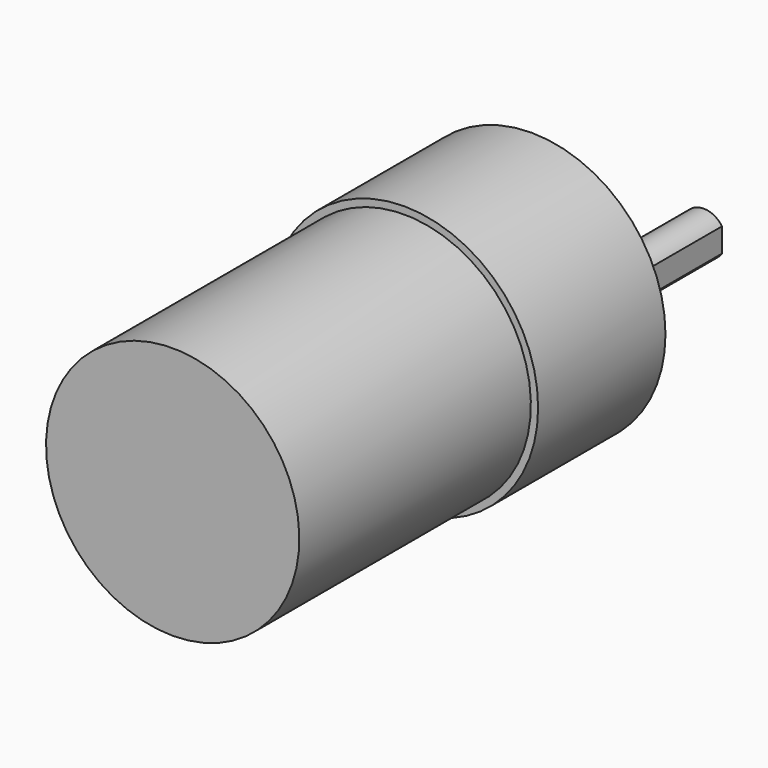
from build123d import *

# Parameters (mm, degrees)
SKETCH022_R             = 18.5
PAD015_DEPTH            = 22
SKETCH023_R             = 17.5
PAD016_DEPTH            = 40
SKETCH024_R             = 6
PAD017_DEPTH            = 6
FILLET001_R             = 1
SKETCH025_R             = 3
PAD018_DEPTH            = 15
POCKET005_DEPTH         = 12
SKETCH027_R             = 1.5
POCKET006_DEPTH         = 15
BODY002_PLACEMENT_ANGLE = 90


with BuildPart() as part:
    # Sketch022 → Pad015 (new body)
    with BuildSketch(Plane.XZ):
        with Locations((0, 18.5)):
            Circle(SKETCH022_R)
    extrude(amount=PAD015_DEPTH)

    # Sketch023 (on Face3 of Pad015) → Pad016 (join)
    with BuildSketch(Plane.XZ.offset(22)):
        with Locations((0, 18.5)):
            Circle(SKETCH023_R)
    extrude(amount=PAD016_DEPTH)

    # Sketch024 (on Face2 of Pad016) → Pad017 (join)
    with BuildSketch(Plane(origin=(0, 0, 0), x_dir=(1, 0, 0), z_dir=(0, 1, 0))):
        with Locations((0, -25.5)):
            Circle(SKETCH024_R)
    extrude(amount=PAD017_DEPTH)

    # Fillet001
    fillet001_edges = [part.edges().sort_by_distance(p)[0] for p in [
        (-6, 6, 25.5),
    ]]
    fillet(fillet001_edges, radius=FILLET001_R)

    # Sketch025 (on Face4 of Fillet001) → Pad018 (join)
    with BuildSketch(Plane(origin=(0, 6, 0), x_dir=(1, 0, 0), z_dir=(0, 1, 0))):
        with Locations((0, -25.5)):
            Circle(SKETCH025_R)
    extrude(amount=PAD018_DEPTH)

    # Sketch026 (on Face8 of Pad018) → Pocket005 (cut)
    with BuildSketch(Plane(origin=(0, 21, 0), x_dir=(1, 0, 0), z_dir=(0, 1, 0))):
        with BuildLine():
            Line((-1.658312, -28), (1.658312, -28))
            ThreePointArc((-1.658312, -28), (0, -28.5), (1.658312, -28))
        make_face()
    extrude(amount=-POCKET005_DEPTH, mode=Mode.SUBTRACT)

    # Sketch027 (on Face3 of Pocket005) → Pocket006 (cut)
    with BuildSketch(Plane(origin=(0, 0, 0), x_dir=(1, 0, 0), z_dir=(0, 1, 0))):
        with Locations((-7.75, -5.08)):
            Circle(SKETCH027_R)
        with Locations((7.75, -5.08)):
            Circle(SKETCH027_R)
        with Locations((-15.5, -18.5)):
            Circle(SKETCH027_R)
        with Locations((15.5, -18.5)):
            Circle(SKETCH027_R)
        with Locations((7.75, -31.92)):
            Circle(SKETCH027_R)
        with Locations((-7.75, -31.92)):
            Circle(SKETCH027_R)
    extrude(amount=-POCKET006_DEPTH, mode=Mode.SUBTRACT)


with BuildPart() as part_1:
    # Body002 placement: moved
    add(part.part.moved(Location((454, -66.5, 0))).rotate(Axis((454, -66.5, 0), (0, 1, 0)), BODY002_PLACEMENT_ANGLE))


solid = part_1.part
